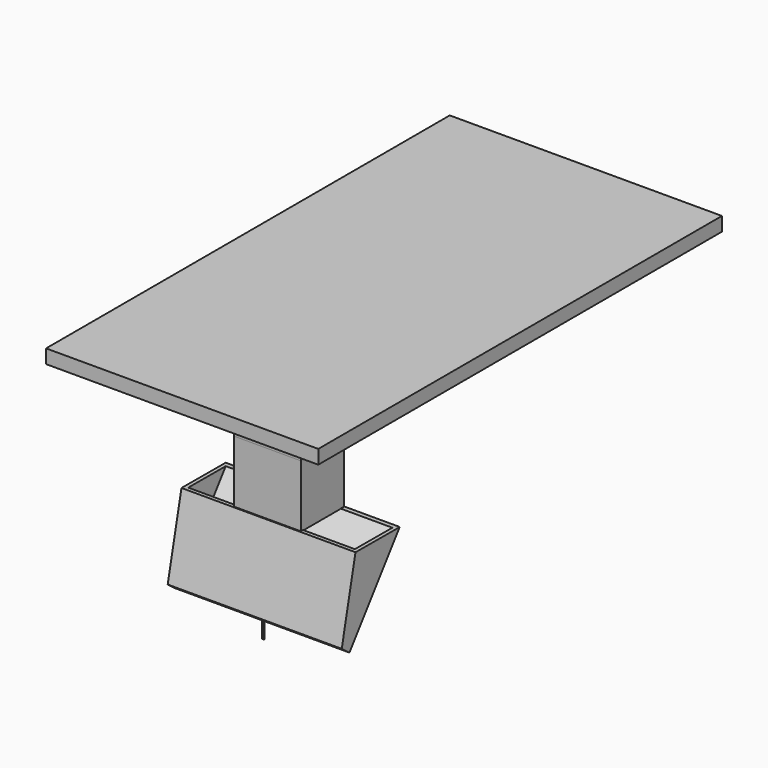
from build123d import *

# Parameters (mm, degrees)
F0_W      = 149.3519991636
F0_H      = 7.6199993491
F1_DEPTH  = 138.43
F2_W      = 36.6839524359
F2_H      = 29.7624468803
F3_DEPTH  = 41.402
F4_W      = 36.6839524359
F4_H      = 29.7624468803
F5_DEPTH  = 34.29
F7_DEPTH  = 47.752
F8_T      = -2.032
F9_W      = 0.4168078303
F9_H      = 9.0326145291
F10_DEPTH = 1.016


with BuildPart() as f1:
    # F0 (on Front) → F1 (new body, symmetric)
    with BuildSketch(Plane.XZ):
        with Locations((0.38100034, 69.7229988873)):
            Rectangle(F0_W, F0_H)
    extrude(amount=F1_DEPTH, both=True)

    # F2 (on face) → F3 (join)
    with BuildSketch(Plane(origin=(0, 0, 65.9129992127), x_dir=(1, 0, 0), z_dir=(0, 0, -1))):
        with Locations((-1.0382244363, 63.3317232132)):
            Rectangle(F2_W, F2_H)
    extrude(amount=F3_DEPTH)


with BuildPart() as f5:
    # F4 (on face) → F5 (new body)
    with BuildSketch(Plane(origin=(0, 0, 24.5109992127), x_dir=(1, 0, 0), z_dir=(0, 0, -1))):
        with Locations((-1.0382244363, 63.3317232132)):
            Rectangle(F4_W, F4_H)
    extrude(amount=F5_DEPTH)


with BuildPart() as f7:
    # F6 (on Right) → F7 (new body, symmetric)
    with BuildSketch(Plane.YZ):
        Polygon((-48.411320895, -9.6413381398), (-78.7627846003, -9.518545121), (-88.1926491857, -52.3156262934), (-82.9336866736, -56.3051849604), align=None)
    extrude(amount=F7_DEPTH, both=True)

    # F8
    f8_openings = [f7.faces().sort_by_distance(p)[0] for p in [
        (0, -85.563168, -54.310406),
        (0, -63.587053, -9.579942),
    ]]
    offset(amount=F8_T, openings=f8_openings)

    # F9 (on Right) → F10 (join)
    with BuildSketch(Plane.YZ):
        with Locations((-83.036404103, -60.5554915965)):
            Rectangle(F9_W, F9_H)
    extrude(amount=F10_DEPTH)


solid = Compound([f1.part, f5.part, f7.part])
